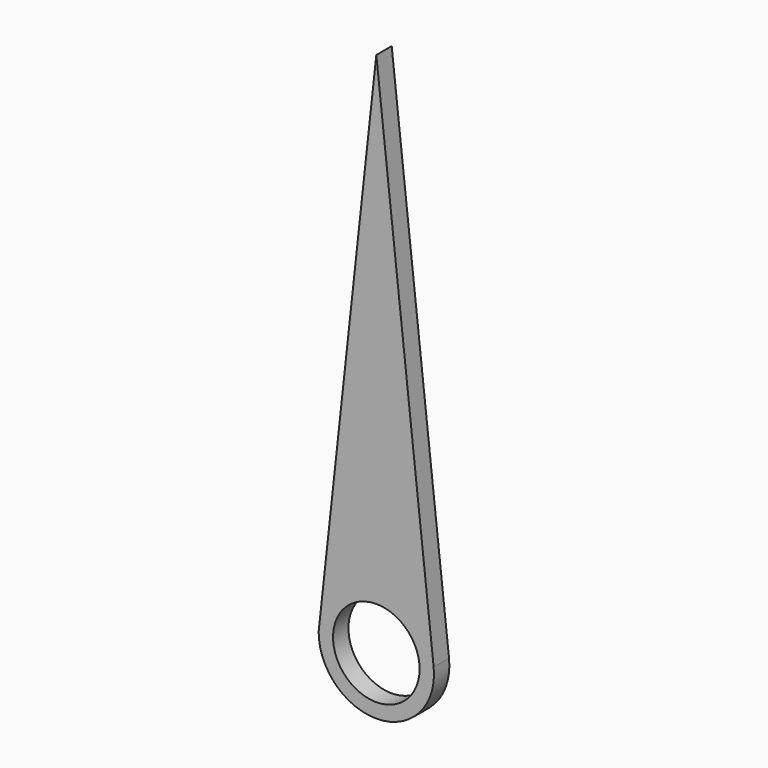
from build123d import *

# Parameters (mm, degrees)
F0_R     = 4.5
F1_DEPTH = 2


with BuildPart() as f1:
    # F0 (on Front) → F1 (new body)
    with BuildSketch(Plane.XZ):
        with BuildLine():
            Line((0, 54.766607), (-6, 0))
            ThreePointArc((-6, 0), (0.329163, -5.990964), (5.963884, 0.657335))
            Line((5.963884, 0.657335), (0, 54.766607))
        make_face()
        Circle(F0_R, mode=Mode.SUBTRACT)
    extrude(amount=F1_DEPTH)


solid = f1.part
